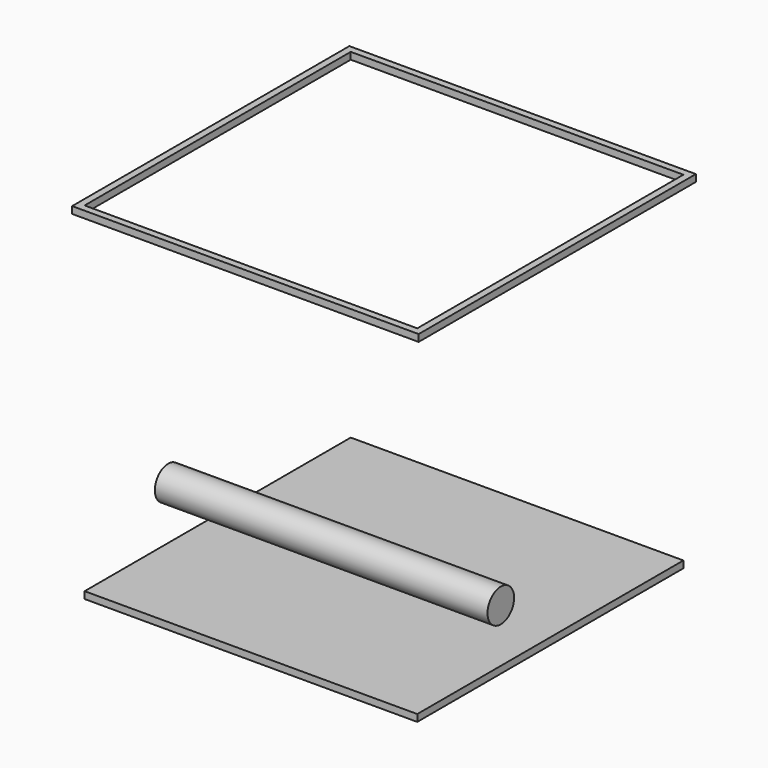
from build123d import *

# Parameters (mm, degrees)
F0_W          = 304.8
F0_H          = 304.8
F1_DEPTH      = 6.35
F3_W          = 317.5
F3_H          = 317.5
F3_W_2        = 304.8
F3_H_2        = 304.8
F4_DEPTH      = 6.35
F5_R          = 15.24
F6_DEPTH      = 152.4
F6_DEPTH_BACK = 152.4


with BuildPart() as f1:
    # F0 (on Top) → F1 (new body)
    with BuildSketch(Plane.XY):
        Rectangle(F0_W, F0_H)
    extrude(amount=-F1_DEPTH)


with BuildPart() as f4:
    # F3 (on offset) → F4 (new body)
    with BuildSketch(Plane.XY.offset(304.8)):
        Rectangle(F3_W, F3_H)
        Rectangle(F3_W_2, F3_H_2, mode=Mode.SUBTRACT)
    extrude(amount=F4_DEPTH)


with BuildPart() as f6:
    # F5 (on Right) → F6 (new body, two sides)
    with BuildSketch(Plane.YZ) as f6_sk:
        with Locations((-56.723166, 48.723623)):
            Circle(F5_R)
    extrude(amount=F6_DEPTH)
    extrude(f6_sk.sketch, amount=-F6_DEPTH_BACK)


solid = Compound([f1.part, f4.part, f6.part])
